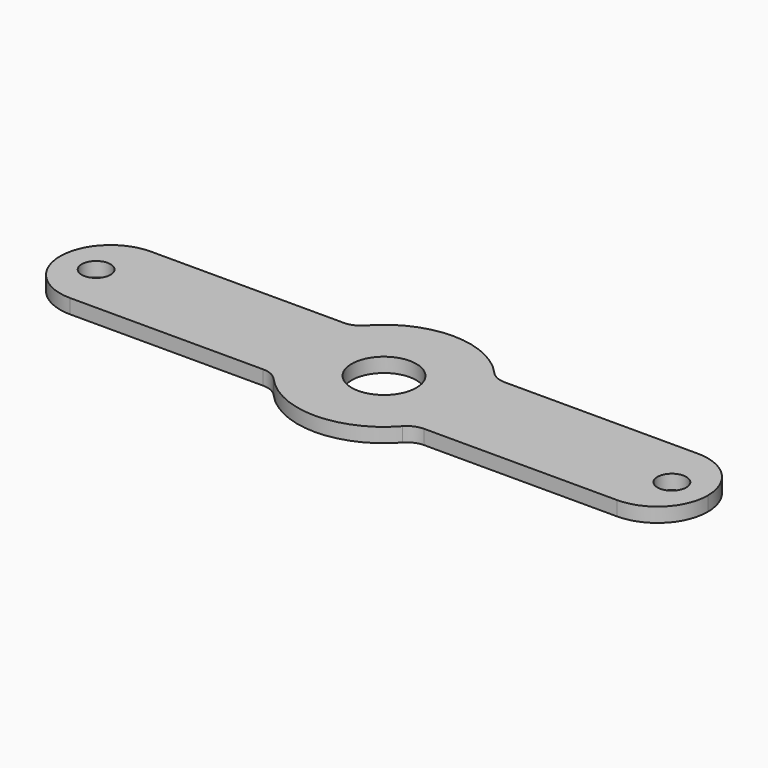
from build123d import *

# Parameters (mm, degrees)
F1_DEPTH = 0.508
F2_R     = 0.508
F2_R_2   = 1.143
F3_DEPTH = 0.509
F4_R     = 0.762


with BuildPart() as f1:
    # F0 (on Top) → F1 (new body)
    with BuildSketch(Plane.XY):
        with BuildLine():
            Line((-2.475686, 1.778), (-9.652, 1.778))
            ThreePointArc((-9.652, 1.778), (-10.909236, 1.257236), (-11.43, 0))
            ThreePointArc((-11.43, 0), (-10.909236, -1.257236), (-9.652, -1.778))
            Line((-9.652, -1.778), (-2.475686, -1.778))
            ThreePointArc((-2.475686, -1.778), (0, -3.048), (2.475686, -1.778))
            Line((2.475686, -1.778), (9.652, -1.778))
            ThreePointArc((9.652, -1.778), (10.909236, -1.257236), (11.43, 0))
            ThreePointArc((11.43, 0), (10.909236, 1.257236), (9.652, 1.778))
            Line((9.652, 1.778), (2.475686, 1.778))
            ThreePointArc((2.475686, 1.778), (0, 3.048), (-2.475686, 1.778))
        make_face()
    extrude(amount=F1_DEPTH)

    # F2 (on face) → F3 (cut, through all)
    with BuildSketch(Plane.XY.offset(0.508)):
        with Locations((-10.16, 0)):
            Circle(F2_R)
        with Locations((10.16, 0)):
            Circle(F2_R)
        Circle(F2_R_2)
    extrude(amount=-F3_DEPTH, mode=Mode.SUBTRACT)

    # F4
    f4_edges = [f1.edges().sort_by_distance(p)[0] for p in [
        (-2.475686, -1.778, 0.254),
        (2.475686, -1.778, 0.254),
        (-2.475686, 1.778, 0.254),
        (2.475686, 1.778, 0.254),
    ]]
    fillet(f4_edges, radius=F4_R)


solid = f1.part
